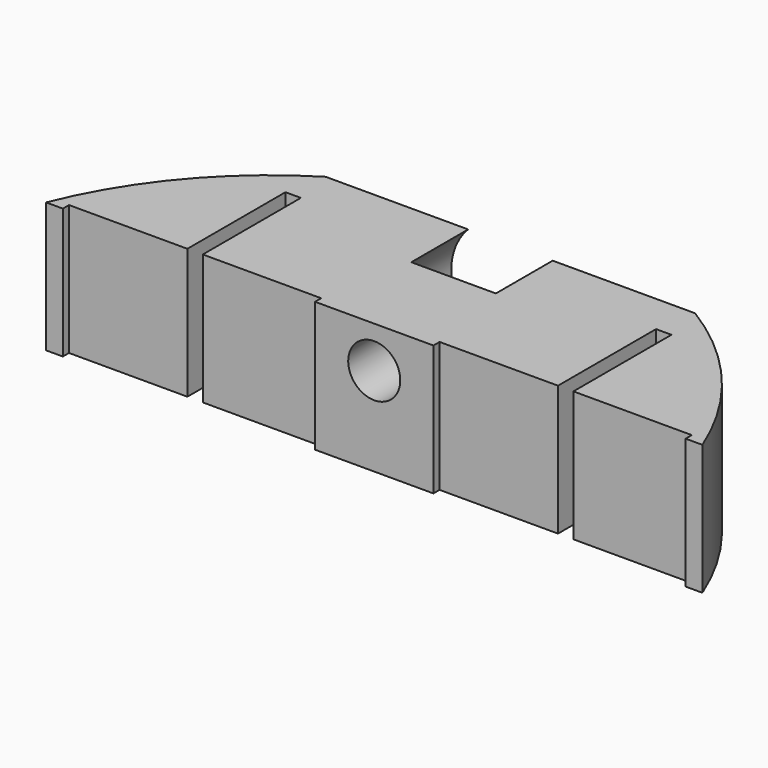
from build123d import *

# Parameters (mm, degrees)
F1_DEPTH = 19.05
F3_R     = 2.794
F4_DEPTH = 18.258491
F5_R     = 6.35
F6_DEPTH = 7.62
F7_W     = 82.632937
F7_H     = 21.472244
F8_DEPTH = 5.08


with BuildPart() as f1:
    # F0 (on Top) → F1 (new body)
    with BuildSketch(Plane.XY):
        with BuildLine():
            Line((0, 32.303751), (-19.815022, 32.303751))
            ThreePointArc((-19.815022, 32.303751), (-28.981906, 24.417547), (-35.197985, 14.04526))
            Line((-35.197985, 14.04526), (-33.401, 14.04526))
            Line((-33.401, 14.04526), (-33.401, 14.87076))
            Line((-33.401, 14.87076), (-20.701, 14.87076))
            Line((-20.701, 14.87076), (-20.701, 28.01526))
            Line((-20.701, 28.01526), (-19.05, 28.01526))
            Line((-19.05, 28.01526), (-19.05, 14.87076))
            Line((-19.05, 14.87076), (-6.35, 14.87076))
            Line((-6.35, 14.87076), (-6.35, 14.04526))
            Line((-6.35, 14.04526), (0, 14.04526))
            Line((0, 14.04526), (0, 32.303751))
        make_face()
    extrude(amount=F1_DEPTH)

    # F2: F1 across plane


with BuildPart() as f1_1:
    add(f1.part)
    add(f1.part.mirror(Plane.YZ))

    # F3 (on face) → F4 (cut, through all)
    with BuildSketch(Plane(origin=(0, 32.303751, 0), x_dir=(-1, 0, 0), z_dir=(0, 1, 0))):
        with Locations((0, 9.525)):
            Circle(F3_R)
    extrude(amount=-F4_DEPTH, mode=Mode.SUBTRACT)

    # F5 (on face) → F6 (cut)
    with BuildSketch(Plane(origin=(0, 32.303751, 0), x_dir=(-1, 0, 0), z_dir=(0, 1, 0))):
        with Locations((0, 9.525)):
            Circle(F5_R)
    extrude(amount=-F6_DEPTH, mode=Mode.SUBTRACT)

    # F7 (on face) → F8 (cut)
    with BuildSketch(Plane.XY.offset(19.05)):
        with Locations((1.089636, 23.172186)):
            Rectangle(F7_W, F7_H)
    extrude(amount=-F8_DEPTH, mode=Mode.SUBTRACT)


solid = f1_1.part
